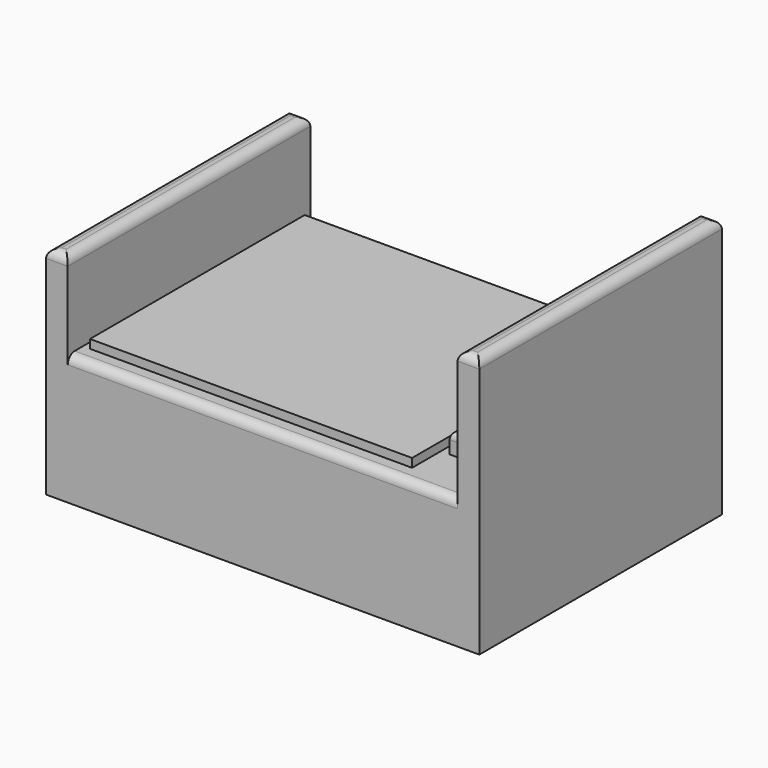
from build123d import *

# Parameters (mm, degrees)
F0_W      = 100
F0_H      = 70
F1_DEPTH  = 30
F2_W      = 5
F2_H      = 70
F3_DEPTH  = 30
F4_W      = 12
F4_H      = 22.185914
F4_H_2    = 22.385787
F5_DEPTH  = 5
F6_W      = 5
F6_H      = 70
F7_DEPTH  = 20
F8_R      = 2
F9_W      = 74.35465
F9_H      = 61.962207
F10_DEPTH = 2


with BuildPart() as f1:
    # F0 (on Top) → F1 (new body)
    with BuildSketch(Plane.XY):
        with Locations((50, 35)):
            Rectangle(F0_W, F0_H)
    extrude(amount=F1_DEPTH)

    # F2 (on face) → F3 (join)
    with BuildSketch(Plane.XY.offset(30)):
        with Locations((97.5, 35)):
            Rectangle(F2_W, F2_H)
    extrude(amount=F3_DEPTH)

    # F4 (on face) → F5 (join)
    with BuildSketch(Plane.XY.offset(30)):
        with Locations((89, 23.784902)):
            Rectangle(F4_W, F4_H)
        with Locations((89, 53.665931)):
            Rectangle(F4_W, F4_H_2)
    extrude(amount=F5_DEPTH)

    # F6 (on face) → F7 (join)
    with BuildSketch(Plane.XY.offset(30)):
        with Locations((2.5, 35)):
            Rectangle(F6_W, F6_H)
    extrude(amount=F7_DEPTH)

    # F8
    f8_edges = [f1.edges().sort_by_distance(p)[0] for p in [
        (83, 23.784902, 35),
        (89, 12.691945, 35),
        (89, 34.877859, 35),
        (83, 53.66593, 35),
        (89, 42.473037, 35),
        (89, 64.858824, 35),
        (50, 0, 30),
        (50, 70, 30),
        (2.5, 0, 50),
        (2.5, 70, 50),
        (97.5, 0, 60),
        (97.5, 70, 60),
        (95, 35, 60),
        (100, 35, 60),
        (5, 35, 50),
        (0, 35, 50),
    ]]
    fillet(f8_edges, radius=F8_R)

    # F9 (on face) → F10 (join)
    with BuildSketch(Plane.XY.offset(30)):
        with Locations((43.801598, 35.36119)):
            Rectangle(F9_W, F9_H)
    extrude(amount=F10_DEPTH)


solid = f1.part
